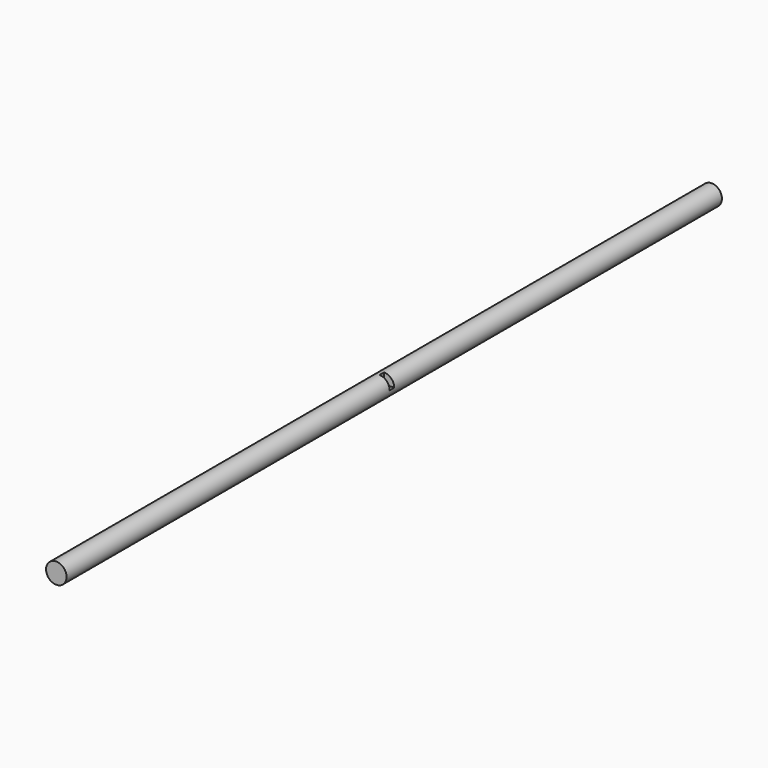
from build123d import *

# Parameters (mm, degrees)
F0_R     = 5.715
F1_DEPTH = 457.2
F2_W     = 6.35
F2_H     = 3.175
F3_DEPTH = 5.716


with BuildPart() as f1:
    # F0 (on Front) → F1 (new body)
    with BuildSketch(Plane.XZ):
        Circle(F0_R)
    extrude(amount=F1_DEPTH)

    # F2 (on Top) → F3 (cut, through all)
    with BuildSketch(Plane.XY):
        with Locations((3.175, -230.1875)):
            Rectangle(F2_W, F2_H)
    extrude(amount=F3_DEPTH, mode=Mode.SUBTRACT)


solid = f1.part
